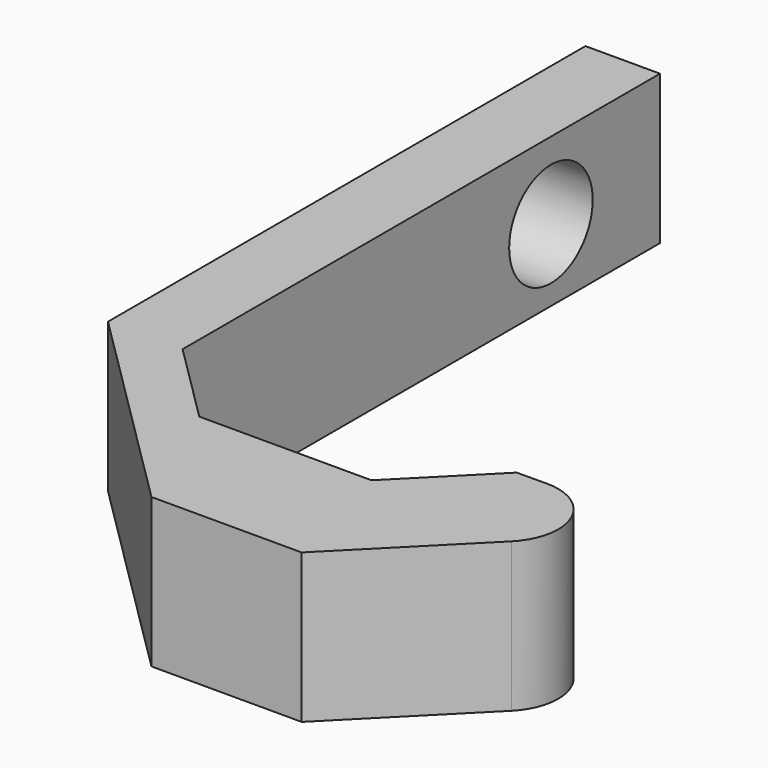
from build123d import *

# Parameters (mm, degrees)
F1_DEPTH = 12.7
F2_R     = 4.6763821429
F3_R     = 0.12308652
F5_D     = 8.89


with BuildPart() as f1:
    # F0 (on Top) → F1 (new body)
    with BuildSketch(Plane.XY):
        Polygon((-64.9482621324, 50.8), (-71.2982621324, 50.8), (-71.2982621324, 0), (-53.2793551183, -17.9019269917), (-40.4947772622, -17.9019269917), (-22.5928502705, 0.1169800224), (-36.5162245659, 0), (-43.3580465615, -6.8865298358), (-58.0167323134, -6.8865298358), (-64.9482621324, 0), align=None)
    extrude(amount=F1_DEPTH)

    # F2
    f2_edges = [f1.edges().sort_by_distance(p)[0] for p in [
        (-22.59285, 0.11698, 6.35),
    ]]
    fillet(f2_edges, radius=F2_R)

    # F3
    f3_edges = [f1.edges().sort_by_distance(p)[0] for p in [
        (-33.964892, 0.021436, 6.35),
        (-36.516225, 0, 6.35),
    ]]
    fillet(f3_edges, radius=F3_R)

    # F5 (through all)
    with Locations(Plane.YZ):
        with Locations((39.1929335892, 6.155018229)):
            Hole(F5_D / 2)


solid = f1.part
